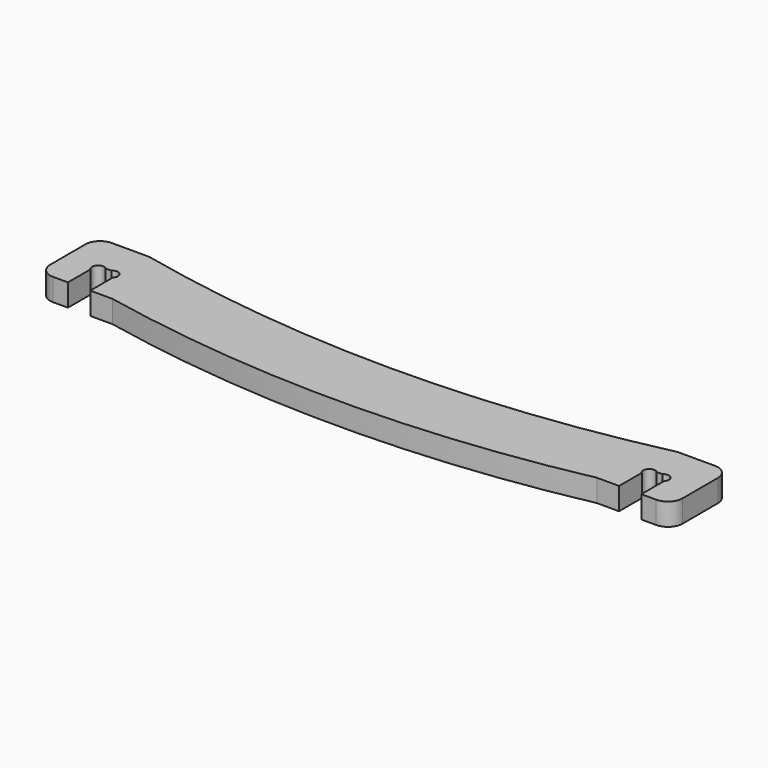
from build123d import *

# Parameters (mm, degrees)
F2_DEPTH = 15.2


with BuildPart() as f2:
    # F1 (on face) → F2 (new body)
    with BuildSketch(Plane.XY):
        with BuildLine():
            ThreePointArc((-2545, 1190.702474), (-2552.071068, 1187.773542), (-2555, 1180.702474))
            Line((-2555, 1180.702474), (-2555, 1150.709974))
            ThreePointArc((-2555, 1150.709974), (-2552.071068, 1143.638906), (-2545, 1140.709974))
            Line((-2545, 1140.709974), (-2534.9, 1140.709974))
            Line((-2534.9, 1140.709974), (-2534.9, 1160.053119))
            ThreePointArc((-2534.9, 1160.053119), (-2534.9, 1165.709973), (-2529.243146, 1165.709974))
            Line((-2529.243146, 1165.709974), (-2525.356854, 1165.709974))
            ThreePointArc((-2525.356854, 1165.709974), (-2519.7, 1165.709973), (-2519.7, 1160.053119))
            Line((-2519.7, 1160.053119), (-2519.7, 1140.709974))
            Line((-2519.7, 1140.709974), (-2504.6, 1140.709973))
            ThreePointArc((-2504.6, 1140.709973), (-2339.6, 1123.931554), (-2174.6, 1140.709974))
            Line((-2174.6, 1140.709974), (-2159.5, 1140.709974))
            Line((-2159.5, 1140.709974), (-2159.5, 1160.053119))
            ThreePointArc((-2159.5, 1160.053119), (-2159.5, 1165.709973), (-2153.843146, 1165.709974))
            Line((-2153.843146, 1165.709974), (-2149.956854, 1165.709974))
            ThreePointArc((-2149.956854, 1165.709974), (-2144.3, 1165.709973), (-2144.3, 1160.053119))
            Line((-2144.3, 1160.053119), (-2144.3, 1140.709974))
            Line((-2144.3, 1140.709974), (-2134.2, 1140.709974))
            ThreePointArc((-2134.2, 1140.709974), (-2127.128932, 1143.638906), (-2124.2, 1150.709974))
            Line((-2124.2, 1150.709974), (-2124.2, 1180.702474))
            ThreePointArc((-2124.2, 1180.702474), (-2127.128932, 1187.773542), (-2134.2, 1190.702474))
            Line((-2134.2, 1190.702474), (-2159.633324, 1190.702474))
            ThreePointArc((-2159.633324, 1190.702474), (-2339.6, 1170.702452), (-2519.566676, 1190.702474))
            Line((-2519.566676, 1190.702474), (-2545, 1190.702474))
        make_face()
    extrude(amount=F2_DEPTH)


solid = f2.part
